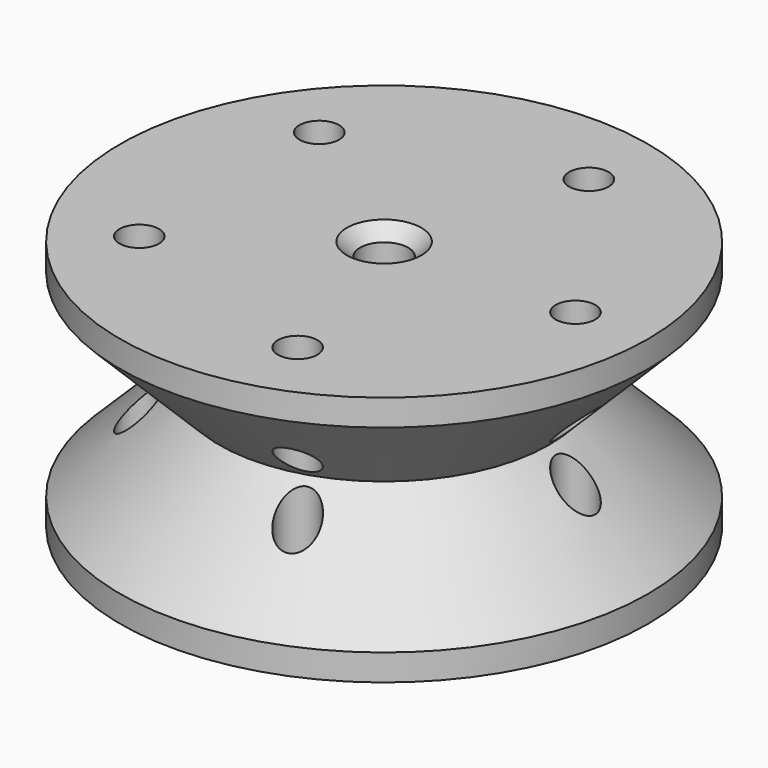
from build123d import *

# Parameters (mm, degrees)
CHAMFER_SIZE       = 1
SKETCH001_R        = 1.5
POCKET_DEPTH       = 138.34923
POLARPATTERN_COUNT = 5


with BuildPart() as part:
    # Sketch → Revolution (revolve)
    with BuildSketch(Plane.XZ):
        Polygon((1.825, 19), (1.825, 0), (20, 0), (20, 2), (12.5, 9.5), (20, 17), (20, 19), align=None)
    revolve(axis=Axis((0, 0, 0), (0, 0, 1)))

    # Chamfer
    chamfer_edges = [part.edges().sort_by_distance(p)[0] for p in [
        (-1.825, 0, 0),
        (-1.825, 0, 19),
    ]]
    chamfer(chamfer_edges, length=CHAMFER_SIZE)

    # Sketch001 (on Face5 of Chamfer) → Pocket (cut, through all)
    with BuildSketch(Plane(origin=(0, 0, 0), x_dir=(1, 0, 0), z_dir=(0, 0, -1))):
        with Locations((14.5, 0)):
            Circle(SKETCH001_R)
    pocket = extrude(amount=-POCKET_DEPTH, mode=Mode.SUBTRACT)

    # PolarPattern: Pocket ×5 about axis
    polarpattern_axis = Axis((0, 0, 0), (0, 0, -1))
    for i in range(1, POLARPATTERN_COUNT):
        add(pocket.rotate(polarpattern_axis, i * 360 / POLARPATTERN_COUNT), mode=Mode.SUBTRACT)


solid = part.part
